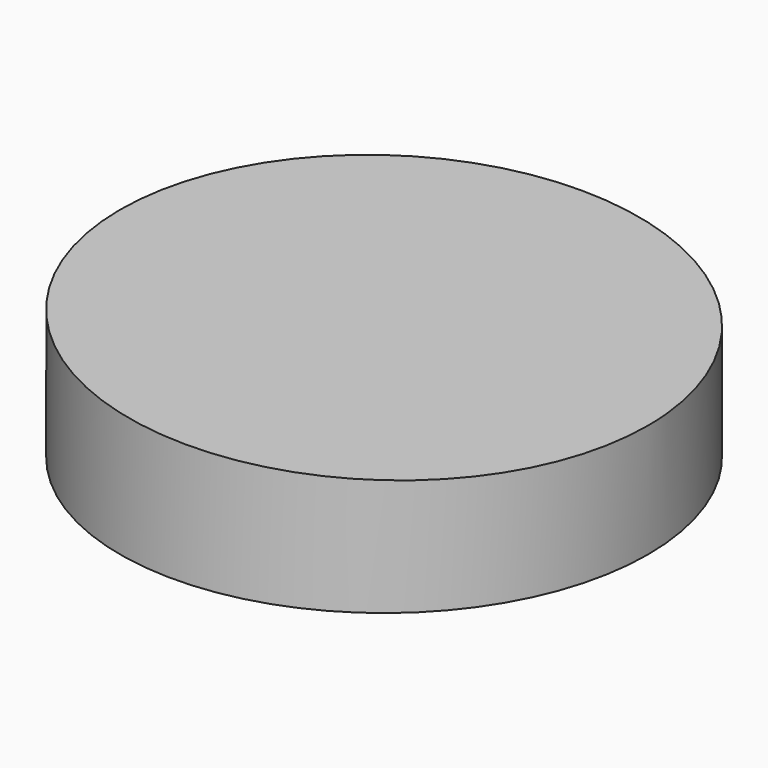
from build123d import *

# Parameters (mm, degrees)
F0_R     = 24
F1_DEPTH = 12
F3_DEPTH = 300


with BuildPart() as f1:
    # F0 (on Top) → F1 (new body)
    with BuildSketch(Plane.XY):
        Circle(F0_R)
    extrude(amount=F1_DEPTH)

    # F2 (on Front) → F3 (cut, symmetric)
    with BuildSketch(Plane.XZ):
        Polygon((-24.07605, 19.970432), (-24.07605, 12), (31.815085, 10.048239), (38.380776, 17.733987), (21.198329, 19.970432), align=None)
    extrude(amount=F3_DEPTH, both=True, mode=Mode.SUBTRACT)


solid = f1.part
